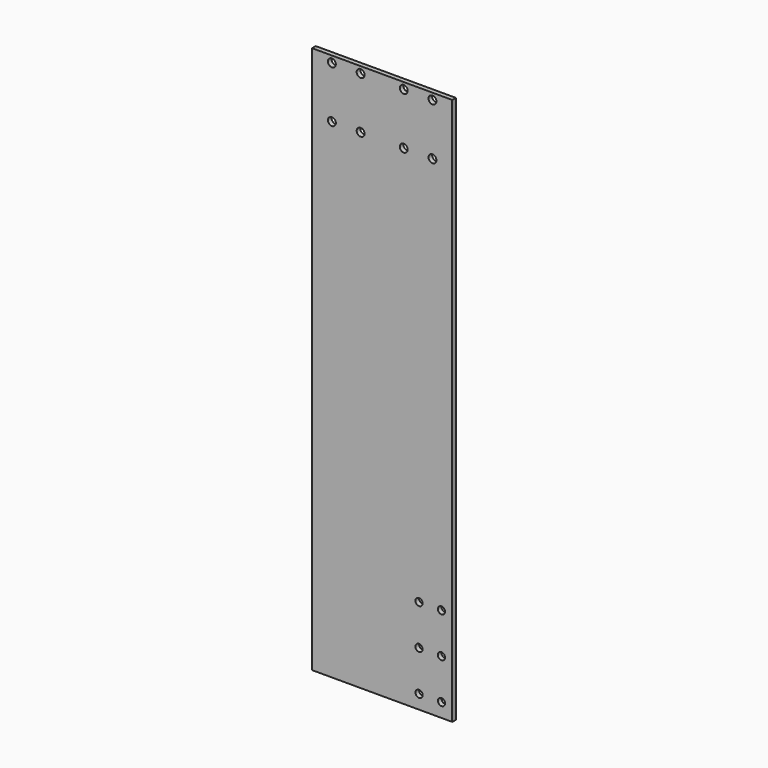
from build123d import *

# Parameters (mm, degrees)
F0_R     = 5.5
F1_DEPTH = 6.35
F2_R     = 5
F3_DEPTH = 6.351


with BuildPart() as f1:
    # F0 (on Front) → F1 (new body)
    with BuildSketch(Plane.XZ):
        Polygon((20.083583, 649.935169), (-74.916417, 649.935169), (-74.916417, -112.064831), (120.083583, -112.064831), (120.083583, 649.935169), (25.083583, 649.935169), align=None)
        with Locations((-47.416417, 568.935169)):
            Circle(F0_R, mode=Mode.SUBTRACT)
        with Locations((-47.416417, 640.935169)):
            Circle(F0_R, mode=Mode.SUBTRACT)
        with Locations((-7.416417, 568.935169)):
            Circle(F0_R, mode=Mode.SUBTRACT)
        with Locations((-7.416417, 640.935169)):
            Circle(F0_R, mode=Mode.SUBTRACT)
        with Locations((52.583583, 568.935169)):
            Circle(F0_R, mode=Mode.SUBTRACT)
        with Locations((52.583583, 640.935169)):
            Circle(F0_R, mode=Mode.SUBTRACT)
        with Locations((92.583583, 568.935169)):
            Circle(F0_R, mode=Mode.SUBTRACT)
        with Locations((92.583583, 640.935169)):
            Circle(F0_R, mode=Mode.SUBTRACT)
    extrude(amount=F1_DEPTH)

    # F2 (on face) → F3 (cut, through all)
    with BuildSketch(Plane(origin=(0, 0, 0), x_dir=(-1, 0, 0), z_dir=(0, 1, 0))):
        with Locations((-73.883583, -92.627153)):
            Circle(F2_R)
        with Locations((-105.083583, -92.627153)):
            Circle(F2_R)
        with Locations((-73.883583, -36.427153)):
            Circle(F2_R)
        with Locations((-105.083583, -36.427153)):
            Circle(F2_R)
        with Locations((-105.083583, 19.772847)):
            Circle(F2_R)
        with Locations((-73.883583, 19.772847)):
            Circle(F2_R)
    extrude(amount=-F3_DEPTH, mode=Mode.SUBTRACT)


solid = f1.part
